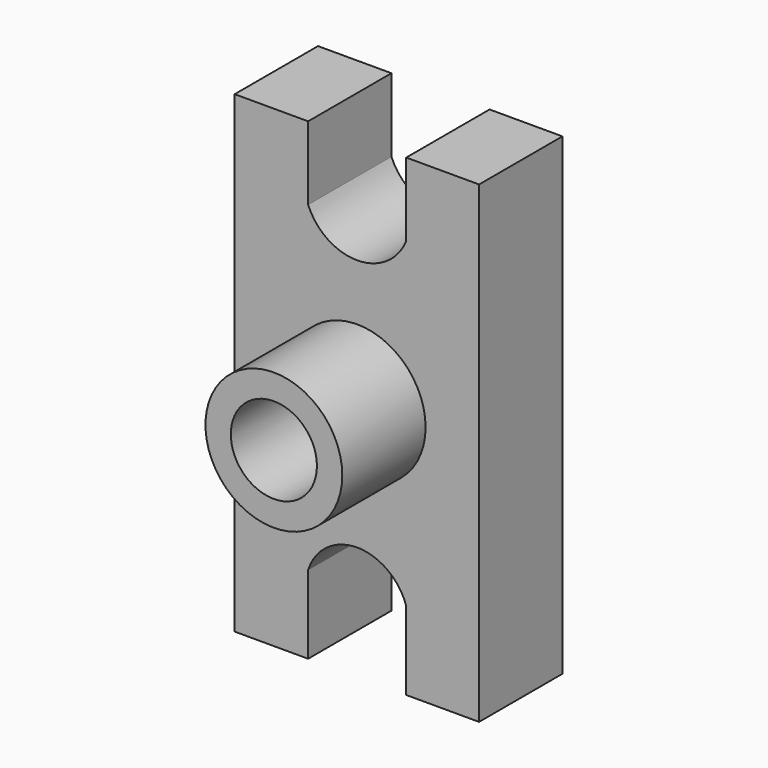
from build123d import *

# Parameters (mm, degrees)
F1_DEPTH = 25.4
F2_R     = 16.682026
F2_R_2   = 10.500829
F3_DEPTH = 25.4


with BuildPart() as f1:
    # F0 (on Front) → F1 (new body)
    with BuildSketch(Plane.XZ):
        with BuildLine():
            Line((-23.929596, 61.36547), (-41.840091, 61.36547))
            Line((-41.840091, 61.36547), (-41.840091, -54.025102))
            Line((-41.840091, -54.025102), (-23.929596, -54.025102))
            Line((-23.929596, -54.025102), (-23.929596, -34.940146))
            ThreePointArc((-23.929596, -34.940146), (-11.964798, -26.243898), (0, -34.940146))
            Line((0, -34.940146), (0, -54.025102))
            Line((0, -54.025102), (17.763687, -54.025102))
            Line((17.763687, -54.025102), (17.763687, 61.36547))
            Line((17.763687, 61.36547), (0, 61.36547))
            Line((0, 61.36547), (0, 43.454971))
            ThreePointArc((0, 43.454971), (-11.964798, 35.3963), (-23.929596, 43.454971))
            Line((-23.929596, 43.454971), (-23.929596, 61.36547))
        make_face()
    extrude(amount=F1_DEPTH)

    # F2 (on face) → F3 (join)
    with BuildSketch(Plane.XZ.offset(25.4)):
        with Locations((-11.964798, 4.991449)):
            Circle(F2_R)
        with Locations((-11.964798, 4.991449)):
            Circle(F2_R_2, mode=Mode.SUBTRACT)
    extrude(amount=F3_DEPTH)


solid = f1.part
